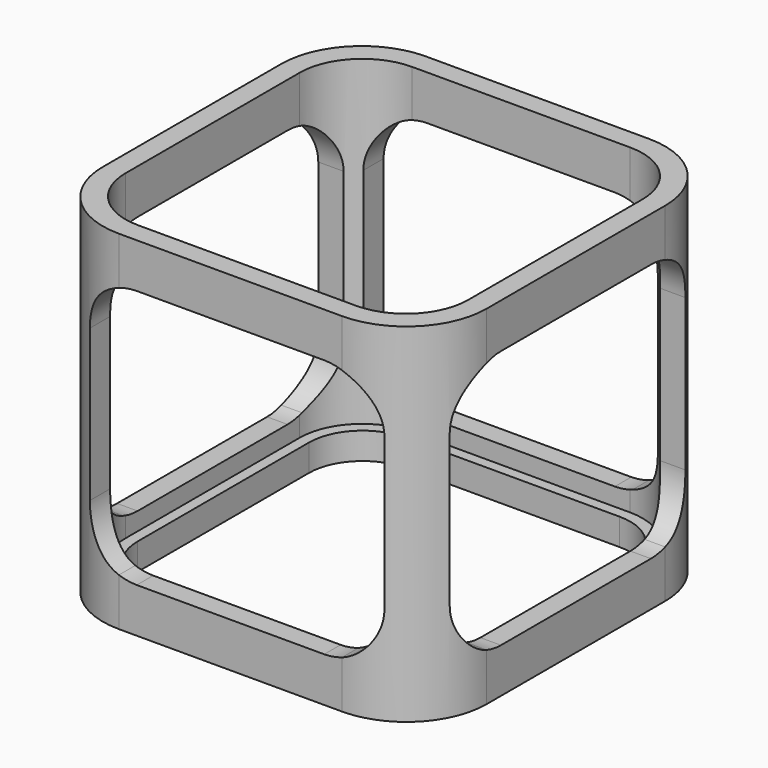
from build123d import *

# Parameters (mm, degrees)
F1_DEPTH = 3
F2_DEPTH = 39
F4_DEPTH = 43
F6_DEPTH = 43


with BuildPart() as f1:
    # F0 (on Top) → F1 (new body)
    with BuildSketch(Plane.XY):
        with BuildLine():
            ThreePointArc((19.2, 12.2), (17.1497474683, 17.1497474683), (12.2, 19.2))
            Line((12.2, 19.2), (-12.2, 19.2))
            ThreePointArc((-12.2, 19.2), (-17.1497474683, 17.1497474683), (-19.2, 12.2))
            Line((-19.2, 12.2), (-19.2, -12.2))
            ThreePointArc((-19.2, -12.2), (-17.1497474683, -17.1497474683), (-12.2, -19.2))
            Line((-12.2, -19.2), (12.2, -19.2))
            ThreePointArc((12.2, -19.2), (17.1497474683, -17.1497474683), (19.2, -12.2))
            Line((19.2, -12.2), (19.2, 12.2))
        make_face()
        with BuildLine():
            Line((-12, 18), (12, 18))
            ThreePointArc((12, 18), (16.2426406871, 16.2426406871), (18, 12))
            Line((18, 12), (18, -12))
            ThreePointArc((18, -12), (16.2426406871, -16.2426406871), (12, -18))
            Line((12, -18), (-12, -18))
            ThreePointArc((-12, -18), (-16.2426406871, -16.2426406871), (-18, -12))
            Line((-18, -12), (-18, 12))
            ThreePointArc((-18, 12), (-16.2426406871, 16.2426406871), (-12, 18))
        make_face(mode=Mode.SUBTRACT)
    extrude(amount=F1_DEPTH)

    # F0 (on Top) → F2 (join)
    with BuildSketch(Plane.XY):
        with BuildLine():
            ThreePointArc((21.5, 12.5), (18.8639610307, 18.8639610307), (12.5, 21.5))
            Line((12.5, 21.5), (-12.5, 21.5))
            ThreePointArc((-12.5, 21.5), (-18.8639610307, 18.8639610307), (-21.5, 12.5))
            Line((-21.5, 12.5), (-21.5, -12.5))
            ThreePointArc((-21.5, -12.5), (-18.8639610307, -18.8639610307), (-12.5, -21.5))
            Line((-12.5, -21.5), (12.5, -21.5))
            ThreePointArc((12.5, -21.5), (18.8639610307, -18.8639610307), (21.5, -12.5))
            Line((21.5, -12.5), (21.5, 12.5))
        make_face()
        with BuildLine():
            Line((-12.2, 19.2), (12.2, 19.2))
            ThreePointArc((12.2, 19.2), (17.1497474683, 17.1497474683), (19.2, 12.2))
            Line((19.2, 12.2), (19.2, -12.2))
            ThreePointArc((19.2, -12.2), (17.1497474683, -17.1497474683), (12.2, -19.2))
            Line((12.2, -19.2), (-12.2, -19.2))
            ThreePointArc((-12.2, -19.2), (-17.1497474683, -17.1497474683), (-19.2, -12.2))
            Line((-19.2, -12.2), (-19.2, 12.2))
            ThreePointArc((-19.2, 12.2), (-17.1497474683, 17.1497474683), (-12.2, 19.2))
        make_face(mode=Mode.SUBTRACT)
    extrude(amount=F2_DEPTH)

    # F3 (on face) → F4 (cut)
    with BuildSketch(Plane(origin=(0, 21.5, 0), x_dir=(-1, 0, 0), z_dir=(0, 1, 0))):
        with BuildLine():
            Line((-12.5, 5.3431457505), (-12.5, 33.6568542495))
            ThreePointArc((-12.5, 33.6568542495), (-15.3989794856, 31.4641016151), (-16.5, 28))
            Line((-16.5, 28), (-16.5, 11))
            ThreePointArc((-16.5, 11), (-15.3989794856, 7.5358983849), (-12.5, 5.3431457505))
        make_face()
        with BuildLine():
            Line((0, 5), (0, 34))
            Line((0, 34), (-10.5, 34))
            ThreePointArc((-10.5, 34), (-11.5146118724, 33.9135913579), (-12.5, 33.6568542495))
            Line((-12.5, 33.6568542495), (-12.5, 5.3431457505))
            ThreePointArc((-12.5, 5.3431457505), (-11.5146118724, 5.0864086421), (-10.5, 5))
            Line((-10.5, 5), (0, 5))
        make_face()
        with BuildLine():
            Line((10.5, 34), (0, 34))
            Line((0, 34), (0, 5))
            Line((0, 5), (10.5, 5))
            ThreePointArc((10.5, 5), (11.5146118724, 5.0864086421), (12.5, 5.3431457505))
            Line((12.5, 5.3431457505), (12.5, 33.6568542495))
            ThreePointArc((12.5, 33.6568542495), (11.5146118724, 33.9135913579), (10.5, 34))
        make_face()
        with BuildLine():
            ThreePointArc((16.5, 28), (15.3989794856, 31.4641016151), (12.5, 33.6568542495))
            Line((12.5, 33.6568542495), (12.5, 5.3431457505))
            ThreePointArc((12.5, 5.3431457505), (15.3989794856, 7.5358983849), (16.5, 11))
            Line((16.5, 11), (16.5, 28))
        make_face()
    extrude(amount=-F4_DEPTH, mode=Mode.SUBTRACT)

    # F5 (on face) → F6 (cut)
    with BuildSketch(Plane.YZ.offset(21.5)):
        with BuildLine():
            Line((-12.5, 5.3431457505), (-12.5, 33.6568542495))
            ThreePointArc((-12.5, 33.6568542495), (-15.3989794856, 31.4641016151), (-16.5, 28))
            Line((-16.5, 28), (-16.5, 11))
            ThreePointArc((-16.5, 11), (-15.3989794856, 7.5358983849), (-12.5, 5.3431457505))
        make_face()
        with BuildLine():
            Line((0, 5), (0, 34))
            Line((0, 34), (-10.5, 34))
            ThreePointArc((-10.5, 34), (-11.5146118724, 33.9135913579), (-12.5, 33.6568542495))
            Line((-12.5, 33.6568542495), (-12.5, 5.3431457505))
            ThreePointArc((-12.5, 5.3431457505), (-11.5146118724, 5.0864086421), (-10.5, 5))
            Line((-10.5, 5), (0, 5))
        make_face()
        with BuildLine():
            Line((10.5, 34), (0, 34))
            Line((0, 34), (0, 5))
            Line((0, 5), (10.5, 5))
            ThreePointArc((10.5, 5), (11.5146118724, 5.0864086421), (12.5, 5.3431457505))
            Line((12.5, 5.3431457505), (12.5, 33.6568542495))
            ThreePointArc((12.5, 33.6568542495), (11.5146118724, 33.9135913579), (10.5, 34))
        make_face()
        with BuildLine():
            ThreePointArc((16.5, 28), (15.3989794856, 31.4641016151), (12.5, 33.6568542495))
            Line((12.5, 33.6568542495), (12.5, 5.3431457505))
            ThreePointArc((12.5, 5.3431457505), (15.3989794856, 7.5358983849), (16.5, 11))
            Line((16.5, 11), (16.5, 28))
        make_face()
    extrude(amount=-F6_DEPTH, mode=Mode.SUBTRACT)


solid = f1.part
